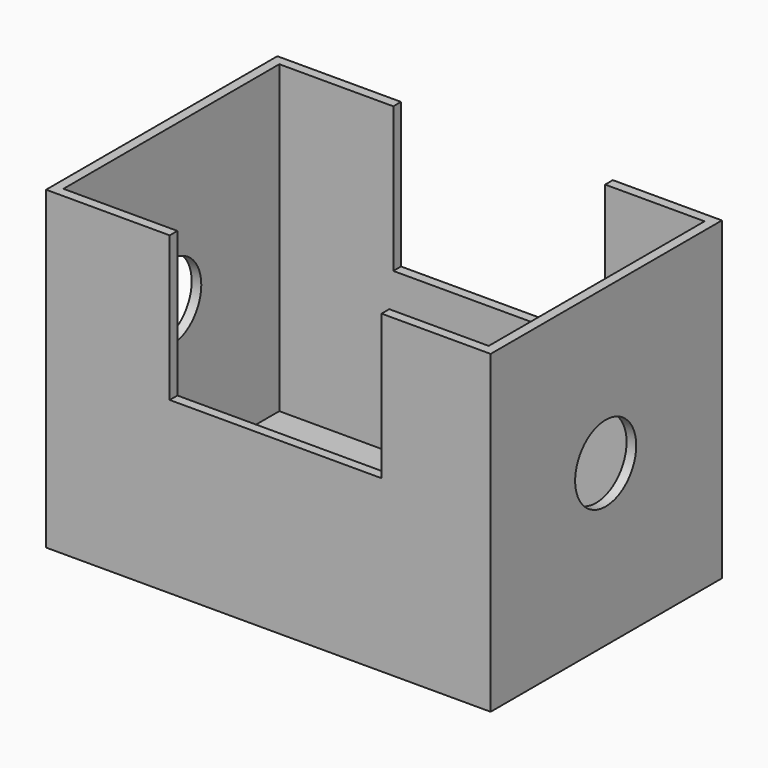
from build123d import *

# Parameters (mm, degrees)
F1_DEPTH = 76.2
F2_T     = -2.54
F3_R     = 10.061541377
F4_DEPTH = 117.1720453928


with BuildPart() as f1:
    # F0 (on Front) → F1 (new body)
    with BuildSketch(Plane.XZ):
        Polygon((-20.8796709776, 51.1912330985), (-53.4663982689, 51.1912330985), (-53.4663982689, -31.8523235619), (63.7046471238, -31.8523235619), (63.7046471238, 51.1912330985), (34.9526293576, 51.1912330985), (34.9526293576, 12.9971429706), (-20.8796709776, 12.9971429706), align=None)
    extrude(amount=F1_DEPTH)

    # F2
    f2_openings = [f1.faces().sort_by_distance(p)[0] for p in [
        (-37.173035, -38.1, 51.191233),
        (49.328638, -38.1, 51.191233),
        (-20.879671, -38.1, 32.094188),
        (7.036479, -38.1, 12.997143),
        (34.952629, -38.1, 32.094188),
    ]]
    offset(amount=F2_T, openings=f2_openings)

    # F3 (on face) → F4 (cut, through all)
    with BuildSketch(Plane.YZ.offset(63.7046471238)):
        with Locations((-38.298625499, 10.4278437793)):
            Circle(F3_R)
    extrude(amount=-F4_DEPTH, mode=Mode.SUBTRACT)


solid = f1.part
